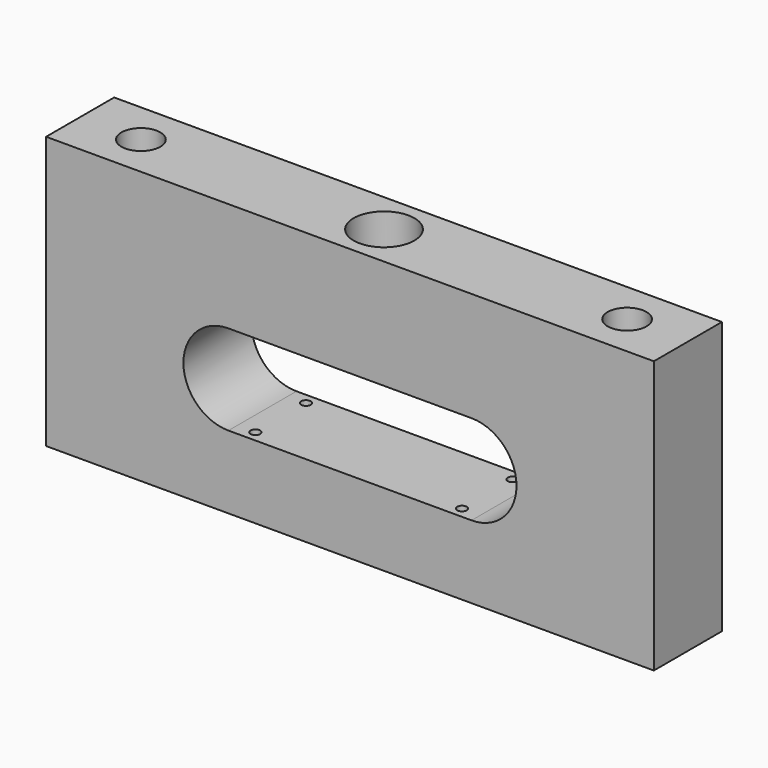
from build123d import *

# Parameters (mm, degrees)
F0_W     = 250
F0_H     = 112
F1_DEPTH = 35
F2_R     = 8
F3_DEPTH = 400
F4_R     = 12.5
F5_DEPTH = 25
F6_R     = 2
F7_DEPTH = 6.1


with BuildPart() as f1:
    # F0 (on Front) → F1 (new body)
    with BuildSketch(Plane.XZ):
        with Locations((0, 7.5)):
            Rectangle(F0_W, F0_H)
        with BuildLine():
            Line((50, -18.5), (-50, -18.5))
            ThreePointArc((-50, -18.5), (-68.5, 0), (-50, 18.5))
            Line((-50, 18.5), (50, 18.5))
            ThreePointArc((50, 18.5), (68.5, 0), (50, -18.5))
        make_face(mode=Mode.SUBTRACT)
    extrude(amount=F1_DEPTH)

    # F2 (on face) → F3 (cut)
    with BuildSketch(Plane.XY.offset(63.5)):
        with Locations((-100, -17.5)):
            Circle(F2_R)
        with Locations((100, -17.5)):
            Circle(F2_R)
    extrude(amount=-F3_DEPTH, mode=Mode.SUBTRACT)

    # F4 (on face) → F5 (cut)
    with BuildSketch(Plane.XY.offset(63.5)):
        with Locations((0, -17.5)):
            Circle(F4_R)
    extrude(amount=-F5_DEPTH, mode=Mode.SUBTRACT)

    # F6 (on face) → F7 (cut)
    with BuildSketch(Plane.XY.offset(-18.5)):
        with Locations((-42.5, -4.5)):
            Circle(F6_R)
        with Locations((-42.5, -30.5)):
            Circle(F6_R)
        with Locations((42.5, -4.5)):
            Circle(F6_R)
        with Locations((42.5, -30.5)):
            Circle(F6_R)
    extrude(amount=-F7_DEPTH, mode=Mode.SUBTRACT)


solid = f1.part
